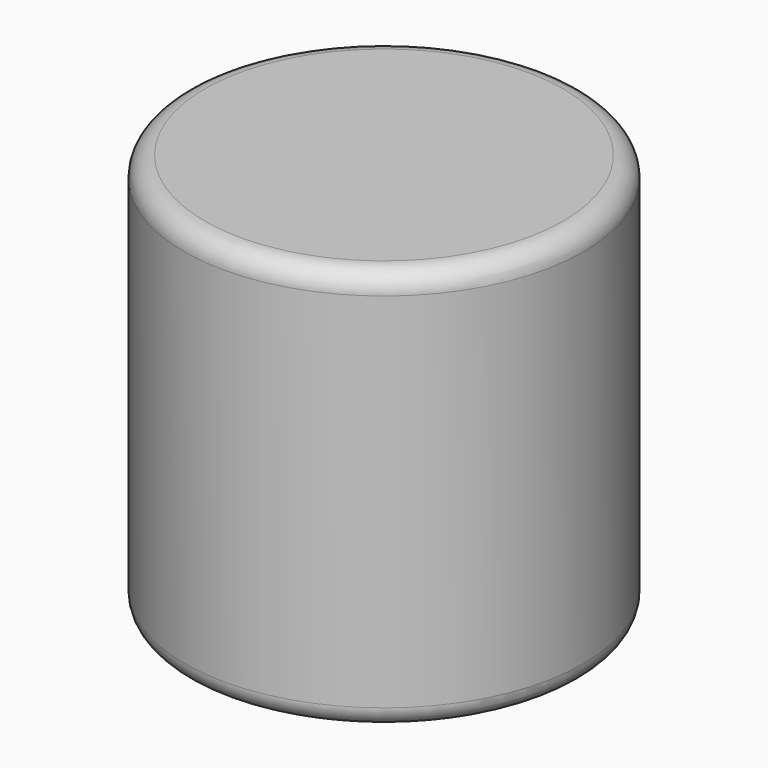
from build123d import *

# Parameters (mm, degrees)
F0_R     = 48.989285
F1_DEPTH = 99
F2_R     = 5
F3_R     = 5


with BuildPart() as f1:
    # F0 (on Top) → F1 (new body)
    with BuildSketch(Plane.XY):
        with Locations((90.133347, 19.112047)):
            Circle(F0_R)
    extrude(amount=F1_DEPTH)

    # F2
    f2_edges = [f1.edges().sort_by_distance(p)[0] for p in [
        (41.144062, 19.112047, 0),
    ]]
    fillet(f2_edges, radius=F2_R)

    # F3
    f3_edges = [f1.edges().sort_by_distance(p)[0] for p in [
        (41.144062, 19.112047, 99),
    ]]
    fillet(f3_edges, radius=F3_R)


solid = f1.part
